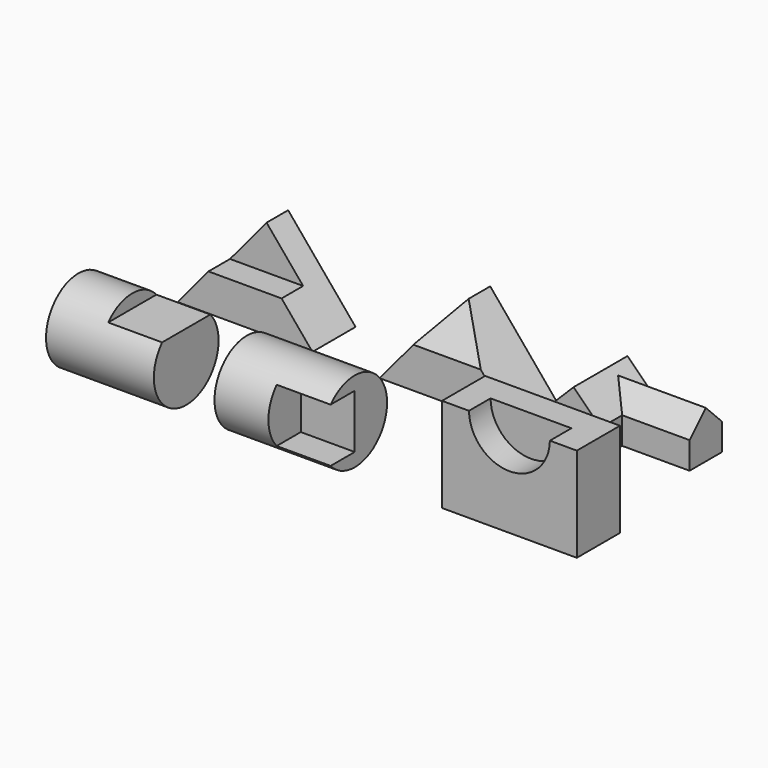
from build123d import *

# Parameters (mm, degrees)
F0_W      = 101.6
F0_H      = 152.4
F1_DEPTH  = 254
F3_DEPTH  = 101.6
F4_W      = 50.8
F4_H      = 82.6769973874
F5_DEPTH  = 249.428
F6_W      = 254
F6_H      = 101.6
F7_DEPTH  = 152.4
F9_DEPTH  = 101.6
F11_DEPTH = 205.486
F13_DEPTH = 152.4
F15_DEPTH = 444.5
F17_DEPTH = 127
F21_R     = 76.2
F22_DEPTH = 203.2
F24_DEPTH = 101.6
F26_R     = 76.2
F27_DEPTH = 203.2
F29_DEPTH = 101.6
F30_W     = 254
F30_H     = 101.6
F31_DEPTH = 177.8
F33_DEPTH = 50.8


with BuildPart() as f1:
    # F0 (on Right) → F1 (new body)
    with BuildSketch(Plane.YZ):
        with Locations((50.8, 76.2)):
            Rectangle(F0_W, F0_H)
    extrude(amount=F1_DEPTH)

    # F2 (on face) → F3 (cut)
    with BuildSketch(Plane.XZ):
        Polygon((0, 0), (127, 152.4), (0, 152.4), align=None)
    extrude(amount=-F3_DEPTH, mode=Mode.SUBTRACT)

    # F4 (on face) → F5 (cut)
    with BuildSketch(Plane.YZ.offset(254)):
        with Locations((25.4, 111.0615013063)):
            Rectangle(F4_W, F4_H)
    extrude(amount=-F5_DEPTH, mode=Mode.SUBTRACT)

    # F14 (on face) → F15 (cut)
    with BuildSketch(Plane(origin=(0, 101.6, 0), x_dir=(-1, 0, 0), z_dir=(0, 1, 0))):
        Polygon((-254, 152.4), (-254, 0), (-127, 152.4), align=None)
    extrude(amount=-F15_DEPTH, mode=Mode.SUBTRACT)


with BuildPart() as f7:
    # F6 (on Top) → F7 (new body)
    with BuildSketch(Plane.XY):
        with Locations((510.6836408377, 47.0942814716)):
            Rectangle(F6_W, F6_H)
    extrude(amount=F7_DEPTH)

    # F8 (on face) → F9 (cut)
    with BuildSketch(Plane.XZ.offset(3.7057185284)):
        Polygon((383.6836408377, 0), (510.6836408377, 152.4), (383.6836408377, 152.4), align=None)
    extrude(amount=-F9_DEPTH, mode=Mode.SUBTRACT)

    # F10 (on face) → F11 (cut)
    with BuildSketch(Plane.YZ.offset(637.6836408377)):
        Polygon((-3.7057185284, 152.4), (-3.7057185284, 76.2), (47.0942814716, 152.4), align=None)
    extrude(amount=-F11_DEPTH, mode=Mode.SUBTRACT)

    # F12 (on face) → F13 (cut)
    with BuildSketch(Plane(origin=(0, 97.8942814716, 0), x_dir=(-1, 0, 0), z_dir=(0, 1, 0))):
        Polygon((-637.6836408377, 152.4), (-637.6836408377, 0), (-510.6836408377, 152.4), align=None)
    extrude(amount=-F13_DEPTH, mode=Mode.SUBTRACT)


with BuildPart() as f17:
    # F16 (on Front) → F17 (new body)
    with BuildSketch(Plane.XZ):
        Polygon((695.3714161174, 50.8), (695.3714161174, 0), (796.9714161174, 0), (796.9714161174, 50.8), (746.1714161174, 101.6), align=None)
    extrude(amount=-F17_DEPTH)

    # F19 (on offset) → F20 (join, up to the next surface of F17)
    with BuildSketch(Plane.YZ.offset(923.9714161174)):
        Polygon((50.8, 50.8), (50.8, 0), (127, 0), (127, 50.8), (88.9, 88.9), align=None)
    extrude(until=Until.NEXT, dir=(-1, 0, 0))


with BuildPart() as f22:
    # F21 (on Right) → F22 (new body)
    with BuildSketch(Plane.YZ):
        with Locations((-233.7117493153, 66.484503448)):
            Circle(F21_R)
    extrude(amount=F22_DEPTH)

    # F23 (on face) → F24 (cut)
    with BuildSketch(Plane.YZ.offset(203.2)):
        with BuildLine():
            Line((-290.5078759438, 117.284503448), (-176.9156226868, 117.284503448))
            ThreePointArc((-176.9156226868, 117.284503448), (-233.7117493153, 142.684503448), (-290.5078759438, 117.284503448))
        make_face()
    extrude(amount=-F24_DEPTH, mode=Mode.SUBTRACT)


with BuildPart() as f27:
    # F26 (on offset) → F27 (new body)
    with BuildSketch(Plane.YZ.offset(317.5)):
        with Locations((-233.7593734264, 66.484503448)):
            Circle(F26_R)
    extrude(amount=F27_DEPTH)

    # F28 (on face) → F29 (cut)
    with BuildSketch(Plane.YZ.offset(520.7)):
        with BuildLine():
            Line((-233.7593734264, 15.684503448), (-233.7593734264, 66.484503448))
            Line((-233.7593734264, 66.484503448), (-233.7593734264, 117.284503448))
            Line((-233.7593734264, 117.284503448), (-290.5555000549, 117.284503448))
            ThreePointArc((-290.5555000549, 117.284503448), (-309.9593734264, 66.484503448), (-290.5555000549, 15.684503448))
            Line((-290.5555000549, 15.684503448), (-233.7593734264, 15.684503448))
        make_face()
    extrude(amount=-F29_DEPTH, mode=Mode.SUBTRACT)


with BuildPart() as f31:
    # F30 (on Top) → F31 (new body)
    with BuildSketch(Plane.XY):
        with Locations((840.7344479561, -218.6306758404)):
            Rectangle(F30_W, F30_H)
    extrude(amount=F31_DEPTH)

    # F32 (on face) → F33 (cut)
    with BuildSketch(Plane.XZ.offset(269.4306758404)):
        with BuildLine():
            Line((916.9344479561, 177.8), (764.5344479561, 177.8))
            ThreePointArc((764.5344479561, 177.8), (840.7344479561, 102.3356958662), (916.9344479561, 177.8))
        make_face()
    extrude(amount=-F33_DEPTH, mode=Mode.SUBTRACT)


solid = Compound([f1.part, f7.part, f17.part, f22.part, f27.part, f31.part])
